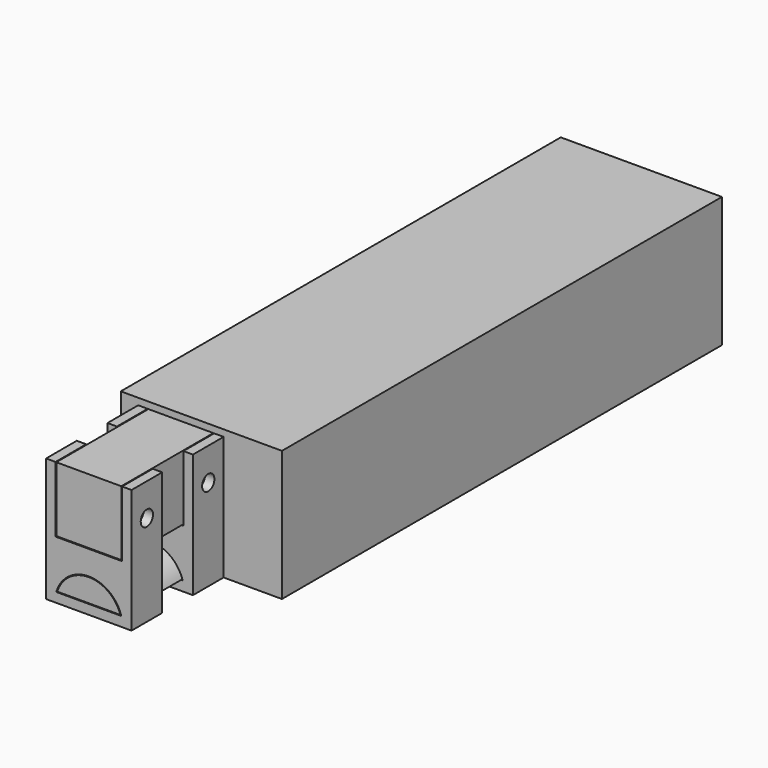
from build123d import *

# Parameters (mm, degrees)
BOX013_W          = 25.4
BOX013_H          = 254
BOX013_DEPTH      = 25.4
BOX017_W          = 63
BOX017_H          = 215
BOX017_DEPTH      = 51
BOX021_W          = 63
BOX021_H          = 215
BOX021_DEPTH      = 51
BOX022_W          = 63
BOX022_H          = 215
BOX022_DEPTH      = 51
CYLINDER011_R     = 2.8
CYLINDER011_DEPTH = 10
CYLINDER012_R     = 2.8
CYLINDER012_DEPTH = 10
BOX020_W          = 63
BOX020_H          = 215
BOX020_DEPTH      = 51
BOX012_W          = 27
BOX012_H          = 200
BOX012_DEPTH      = 20
CYLINDER_R        = 13
CYLINDER_DEPTH    = 120
CYLINDER014_R     = 2.25
CYLINDER014_DEPTH = 10
CYLINDER008_R     = 3
CYLINDER008_DEPTH = 100
BOX023_W          = 27
BOX023_H          = 200
BOX023_DEPTH      = 20
CYLINDER013_R     = 13.25
CYLINDER013_DEPTH = 120
BOX_W             = 26
BOX_H             = 254
BOX_DEPTH         = 26
BOX014_W          = 33.4
BOX014_H          = 15
BOX014_DEPTH      = 48.4
CYLINDER015_R     = 2.25
CYLINDER015_DEPTH = 10
CYLINDER009_R     = 3
CYLINDER009_DEPTH = 100
BOX016_W          = 27
BOX016_H          = 200
BOX016_DEPTH      = 20
CYLINDER010_R     = 13.25
CYLINDER010_DEPTH = 120
BOX018_W          = 26
BOX018_H          = 254
BOX018_DEPTH      = 26
BOX015_W          = 33.4
BOX015_H          = 15
BOX015_DEPTH      = 48.4


with BuildPart() as tslotframe001:
    # Box013 → Box013 (new body)
    with BuildSketch(Plane(origin=(0.8, 0, 66), x_dir=(1, 0, 0), z_dir=(0, 0, 1))):
        with Locations((12.7, 127)):
            Rectangle(BOX013_W, BOX013_H)
    extrude(amount=BOX013_DEPTH)


with BuildPart() as shellcuts:
    # Box017 → Box017 (new body)
    with BuildSketch(Plane(origin=(-10, 45, 43), x_dir=(1, 0, 0), z_dir=(0, 0, 1))):
        with Locations((31.5, 107.5)):
            Rectangle(BOX017_W, BOX017_H)
    extrude(amount=BOX017_DEPTH)


with BuildPart() as shellcuts002:
    # Box021 → Box021 (new body)
    with BuildSketch(Plane(origin=(-10, 45, 43), x_dir=(1, 0, 0), z_dir=(0, 0, 1))):
        with Locations((31.5, 107.5)):
            Rectangle(BOX021_W, BOX021_H)
    extrude(amount=BOX021_DEPTH)


with BuildPart() as shellcuts003:
    # Box022 → Box022 (new body)
    with BuildSketch(Plane(origin=(-10, 45, 43), x_dir=(1, 0, 0), z_dir=(0, 0, 1))):
        with Locations((31.5, 107.5)):
            Rectangle(BOX022_W, BOX022_H)
    extrude(amount=BOX022_DEPTH)


with BuildPart() as cylinder011:
    # Cylinder011 → Cylinder011 (new body)
    with BuildSketch(Plane(origin=(13.5, 7.5, 47), x_dir=(0, 1, 0), z_dir=(0, 0, 1))):
        Circle(CYLINDER011_R)
    extrude(amount=CYLINDER011_DEPTH)


with BuildPart() as shellcuts004:
    # Cylinder012 → Cylinder012 (new body)
    with BuildSketch(Plane(origin=(13.5, 37.5, 47), x_dir=(0, 1, 0), z_dir=(0, 0, 1))):
        Circle(CYLINDER012_R)
    extrude(amount=CYLINDER012_DEPTH)

    # Fusion: union Cylinder011
    add(cylinder011.part)


with BuildPart() as shellcuts001:
    # Box020 → Box020 (new body)
    with BuildSketch(Plane(origin=(-10, 45, 43), x_dir=(1, 0, 0), z_dir=(0, 0, 1))):
        with Locations((31.5, 107.5)):
            Rectangle(BOX020_W, BOX020_H)
    extrude(amount=BOX020_DEPTH)


with BuildPart() as shell_holder001:
    # Box012 → Box012 (new body)
    with BuildSketch(Plane.XY.offset(27)):
        with Locations((13.5, 100)):
            Rectangle(BOX012_W, BOX012_H)
    extrude(amount=BOX012_DEPTH)


with BuildPart() as shell001:
    # Cylinder → Cylinder (new body)
    with BuildSketch(Plane(origin=(13.5, 15, 43), x_dir=(1, 0, 0), z_dir=(0, 1, 0))):
        Circle(CYLINDER_R)
    extrude(amount=CYLINDER_DEPTH)

    # Cut005: cut Shell_Holder001
    add(shell_holder001.part, mode=Mode.SUBTRACT)


with BuildPart() as shell001_1:
    # Cut005 placement: moved
    add(shell001.part.moved(Location((0, -15, 0))))

    # Cut: cut ShellCuts001
    add(shellcuts001.part, mode=Mode.SUBTRACT)

    # Cut007: cut ShellCuts004
    add(shellcuts004.part, mode=Mode.SUBTRACT)


with BuildPart() as cylinder014:
    # Cylinder014 → Cylinder014 (new body)
    with BuildSketch(Plane(origin=(13.5, 7.5, 43), x_dir=(1, 0, 0), z_dir=(0, 0, 1))):
        Circle(CYLINDER014_R)
    extrude(amount=CYLINDER014_DEPTH)


with BuildPart() as obj1:
    # Cylinder008 → Cylinder008 (new body)
    with BuildSketch(Plane(origin=(-56.4, 7.5, 78.7), x_dir=(0, 0, -1), z_dir=(1, 0, 0))):
        Circle(CYLINDER008_R)
    extrude(amount=CYLINDER008_DEPTH)


with BuildPart() as shell_holder003:
    # Box023 → Box023 (new body)
    with BuildSketch(Plane.XY.offset(26.75)):
        with Locations((13.5, 100)):
            Rectangle(BOX023_W, BOX023_H)
    extrude(amount=BOX023_DEPTH)


with BuildPart() as shellcut001:
    # Cylinder013 → Cylinder013 (new body)
    with BuildSketch(Plane(origin=(13.5, 15, 43), x_dir=(1, 0, 0), z_dir=(0, 1, 0))):
        Circle(CYLINDER013_R)
    extrude(amount=CYLINDER013_DEPTH)

    # Cut010: cut Shell_Holder003
    add(shell_holder003.part, mode=Mode.SUBTRACT)


with BuildPart() as shellcut001_1:
    # Cut010 placement: moved
    add(shellcut001.part.moved(Location((0, -15, 0))))


with BuildPart() as tslotframecut:
    # Box → Box (new body)
    with BuildSketch(Plane(origin=(0.5, 0, 65.7), x_dir=(1, 0, 0), z_dir=(0, 0, 1))):
        with Locations((13, 127)):
            Rectangle(BOX_W, BOX_H)
    extrude(amount=BOX_DEPTH)


with BuildPart() as tslotmount008:
    # Box014 → Box014 (new body)
    with BuildSketch(Plane(origin=(-3.2, 0, 43), x_dir=(1, 0, 0), z_dir=(0, 0, 1))):
        with Locations((16.7, 7.5)):
            Rectangle(BOX014_W, BOX014_H)
    extrude(amount=BOX014_DEPTH)

    # Cut008: cut TSlotFrameCut
    add(tslotframecut.part, mode=Mode.SUBTRACT)

    # Cut012: cut ShellCut001
    add(shellcut001_1.part, mode=Mode.SUBTRACT)

    # Cut014: cut obj1
    add(obj1.part, mode=Mode.SUBTRACT)

    # Cut015: cut Cylinder014
    add(cylinder014.part, mode=Mode.SUBTRACT)


with BuildPart() as cylinder015:
    # Cylinder015 → Cylinder015 (new body)
    with BuildSketch(Plane(origin=(13.5, 37.5, 43), x_dir=(1, 0, 0), z_dir=(0, 0, 1))):
        Circle(CYLINDER015_R)
    extrude(amount=CYLINDER015_DEPTH)


with BuildPart() as obj2:
    # Cylinder009 → Cylinder009 (new body)
    with BuildSketch(Plane(origin=(-56.4, 37.5, 78.7), x_dir=(0, 0, -1), z_dir=(1, 0, 0))):
        Circle(CYLINDER009_R)
    extrude(amount=CYLINDER009_DEPTH)


with BuildPart() as shell_holder002:
    # Box016 → Box016 (new body)
    with BuildSketch(Plane.XY.offset(26.75)):
        with Locations((13.5, 100)):
            Rectangle(BOX016_W, BOX016_H)
    extrude(amount=BOX016_DEPTH)


with BuildPart() as shellcut:
    # Cylinder010 → Cylinder010 (new body)
    with BuildSketch(Plane(origin=(13.5, 15, 43), x_dir=(1, 0, 0), z_dir=(0, 1, 0))):
        Circle(CYLINDER010_R)
    extrude(amount=CYLINDER010_DEPTH)

    # Cut006: cut Shell_Holder002
    add(shell_holder002.part, mode=Mode.SUBTRACT)


with BuildPart() as shellcut_1:
    # Cut006 placement: moved
    add(shellcut.part.moved(Location((0, -15, 0))))


with BuildPart() as tslotframecut001:
    # Box018 → Box018 (new body)
    with BuildSketch(Plane(origin=(0.5, 0, 65.7), x_dir=(1, 0, 0), z_dir=(0, 0, 1))):
        with Locations((13, 127)):
            Rectangle(BOX018_W, BOX018_H)
    extrude(amount=BOX018_DEPTH)


with BuildPart() as tslotmount009:
    # Box015 → Box015 (new body)
    with BuildSketch(Plane(origin=(-3.2, 30, 43), x_dir=(1, 0, 0), z_dir=(0, 0, 1))):
        with Locations((16.7, 7.5)):
            Rectangle(BOX015_W, BOX015_H)
    extrude(amount=BOX015_DEPTH)

    # Cut009: cut TSlotFrameCut001
    add(tslotframecut001.part, mode=Mode.SUBTRACT)

    # Cut011: cut ShellCut
    add(shellcut_1.part, mode=Mode.SUBTRACT)

    # Cut013: cut obj2
    add(obj2.part, mode=Mode.SUBTRACT)

    # Cut016: cut Cylinder015
    add(cylinder015.part, mode=Mode.SUBTRACT)


solid = Compound([tslotframe001.part, shellcuts.part, shellcuts002.part, shellcuts003.part, shell001_1.part, tslotmount008.part, tslotmount009.part])
